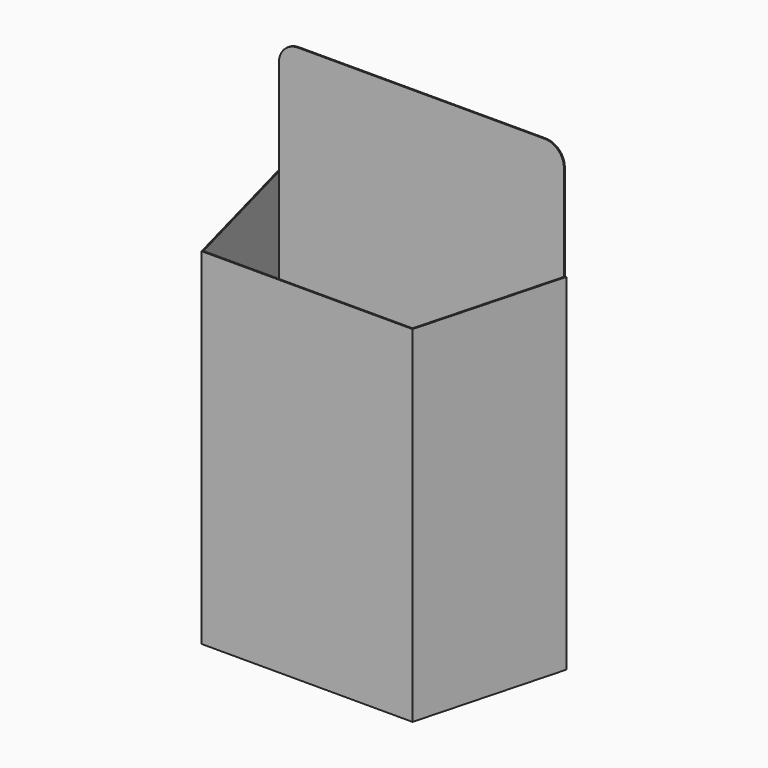
from build123d import *

# Parameters (mm, degrees)
F1_DEPTH = 914.4
F2_T     = -3.175
F3_W     = 753.724518
F3_H     = 3.175
F4_DEPTH = 304.8
F5_R     = 50.8


with BuildPart() as f1:
    # F0 (on Top) → F1 (new body)
    with BuildSketch(Plane.XY):
        Polygon((278.911358, -381), (381, 0), (-381, 0), (-278.911358, -381), align=None)
    extrude(amount=F1_DEPTH)

    # F2
    f2_openings = [f1.faces().sort_by_distance(p)[0] for p in [
        (0, -180.676516, 914.4),
    ]]
    offset(amount=F2_T, openings=f2_openings)

    # F3 (on face) → F4 (join)
    with BuildSketch(Plane.XY.offset(914.4)):
        with Locations((0, -1.5875)):
            Rectangle(F3_W, F3_H)
    extrude(amount=F4_DEPTH)

    # F5
    f5_edges = [f1.edges().sort_by_distance(p)[0] for p in [
        (376.862259, -1.5875, 1219.2),
        (-376.862259, -1.5875, 1219.2),
    ]]
    fillet(f5_edges, radius=F5_R)


solid = f1.part
